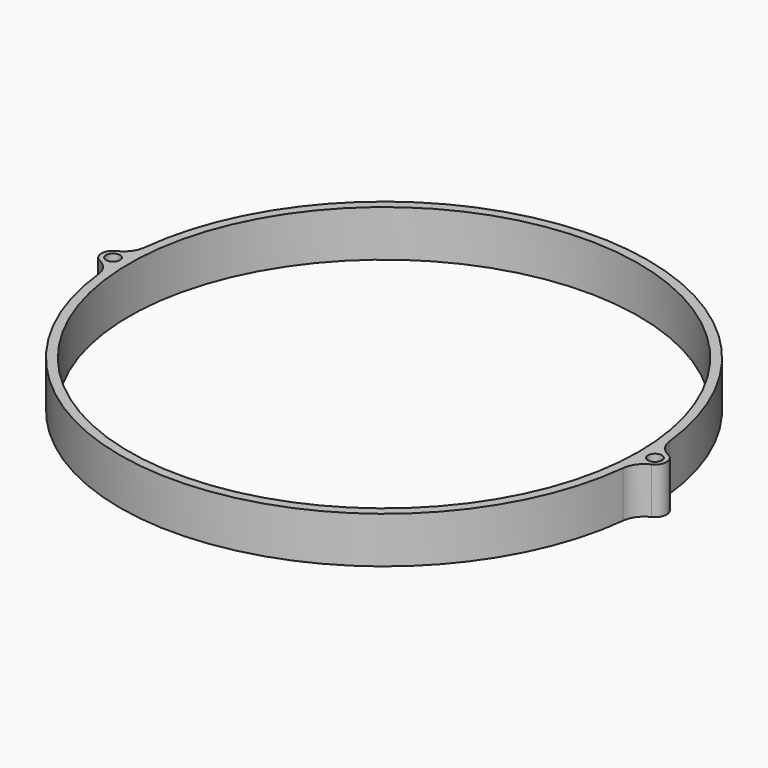
from build123d import *

# Parameters (mm, degrees)
F0_R     = 57
F1_DEPTH = 10
F2_R     = 55
F3_DEPTH = 25
F4_R     = 2.5
F4_R_2   = 1.5
F5_DEPTH = 10
F6_R     = 5
F7_R     = 5


with BuildPart() as f1:
    # F0 (on Top) → F1 (new body)
    with BuildSketch(Plane.XY):
        Circle(F0_R)
    extrude(amount=F1_DEPTH)

    # F2 (on Top) → F3 (cut)
    with BuildSketch(Plane.XY):
        Circle(F2_R)
    extrude(amount=F3_DEPTH, mode=Mode.SUBTRACT)

    # F4 (on Top) → F5 (join)
    with BuildSketch(Plane.XY):
        with Locations((58.5, 0)):
            Circle(F4_R)
        with Locations((58.5, 0)):
            Circle(F4_R_2, mode=Mode.SUBTRACT)
        with Locations((-58.5, 0)):
            Circle(F4_R)
        with Locations((-58.5, 0)):
            Circle(F4_R_2, mode=Mode.SUBTRACT)
    extrude(amount=F5_DEPTH)

    # F6
    f6_edges = [f1.edges().sort_by_distance(p)[0] for p in [
        (-56.965812, -1.973896, 5),
        (-56.965812, 1.973896, 5),
    ]]
    fillet(f6_edges, radius=F6_R)

    # F7
    f7_edges = [f1.edges().sort_by_distance(p)[0] for p in [
        (56.965812, -1.973896, 5),
        (56.965812, 1.973896, 5),
    ]]
    fillet(f7_edges, radius=F7_R)


solid = f1.part
